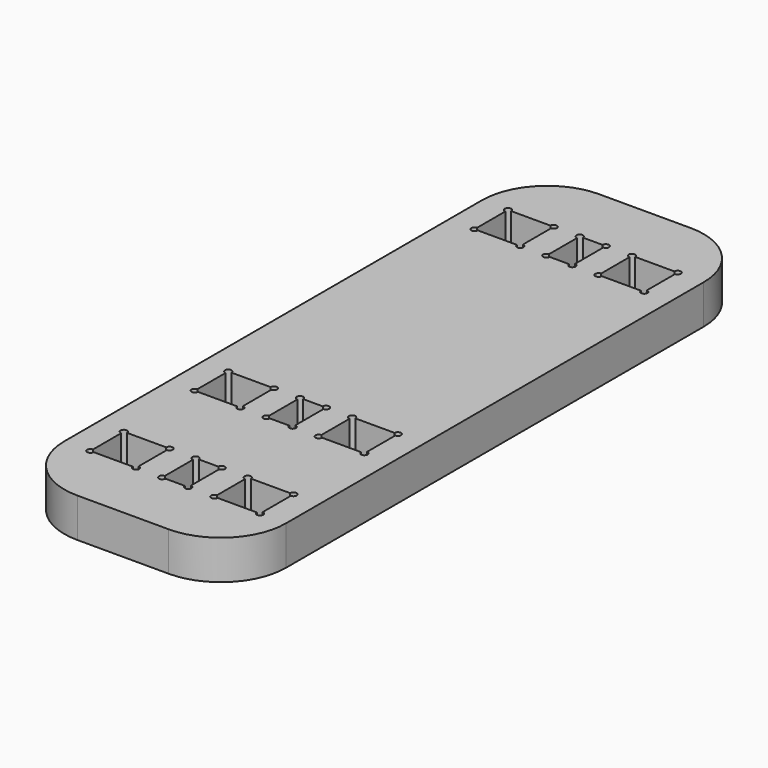
from build123d import *

# Parameters (mm, degrees)
F1_DEPTH = 3


with BuildPart() as f1:
    # F0 (on Top) → F1 (new body)
    with BuildSketch(Plane.XY):
        with BuildLine():
            Line((3.5, 50), (-3.5, 50))
            ThreePointArc((-3.5, 50), (-7.035534, 48.535534), (-8.5, 45))
            Line((-8.5, 45), (-8.5, 5))
            ThreePointArc((-8.5, 5), (-7.035534, 1.464466), (-3.5, 0))
            Line((-3.5, 0), (3.5, 0))
            ThreePointArc((3.5, 0), (7.035534, 1.464466), (8.5, 5))
            Line((8.5, 5), (8.5, 45))
            ThreePointArc((8.5, 45), (7.035534, 48.535534), (3.5, 50))
        make_face()
        with BuildLine():
            ThreePointArc((-6.5, 7.95), (-6.676777, 8.376777), (-6.25, 8.2))
            Line((-6.25, 8.2), (-3.25, 8.2))
            ThreePointArc((-3.25, 8.2), (-3, 8.45), (-2.75, 8.2))
            ThreePointArc((-2.75, 8.2), (-2.823223, 8.023223), (-3, 7.95))
            Line((-3, 7.95), (-3, 5.25))
            ThreePointArc((-3, 5.25), (-2.823223, 5.176777), (-2.75, 5))
            ThreePointArc((-2.75, 5), (-3, 4.75), (-3.25, 5))
            Line((-3.25, 5), (-6.25, 5))
            ThreePointArc((-6.25, 5), (-6.676777, 4.823223), (-6.5, 5.25))
            Line((-6.5, 5.25), (-6.5, 7.95))
        make_face(mode=Mode.SUBTRACT)
        with BuildLine():
            ThreePointArc((-2.75, 18.2), (-2.823223, 18.023223), (-3, 17.95))
            Line((-3, 17.95), (-3, 15.25))
            ThreePointArc((-3, 15.25), (-2.823223, 15.176777), (-2.75, 15))
            ThreePointArc((-2.75, 15), (-3, 14.75), (-3.25, 15))
            Line((-3.25, 15), (-6.25, 15))
            ThreePointArc((-6.25, 15), (-6.676777, 14.823223), (-6.5, 15.25))
            Line((-6.5, 15.25), (-6.5, 17.95))
            ThreePointArc((-6.5, 17.95), (-6.676777, 18.376777), (-6.25, 18.2))
            Line((-6.25, 18.2), (-3.25, 18.2))
            ThreePointArc((-3.25, 18.2), (-3, 18.45), (-2.75, 18.2))
        make_face(mode=Mode.SUBTRACT)
        with BuildLine():
            ThreePointArc((-1, 7.95), (-1.176777, 8.376777), (-0.75, 8.2))
            Line((-0.75, 8.2), (0.75, 8.2))
            ThreePointArc((0.75, 8.2), (1, 8.45), (1.25, 8.2))
            ThreePointArc((1.25, 8.2), (1.176777, 8.023223), (1, 7.95))
            Line((1, 7.95), (1, 5.25))
            ThreePointArc((1, 5.25), (1.176777, 5.176777), (1.25, 5))
            ThreePointArc((1.25, 5), (1, 4.75), (0.75, 5))
            Line((0.75, 5), (-0.75, 5))
            ThreePointArc((-0.75, 5), (-1.176777, 4.823223), (-1, 5.25))
            Line((-1, 5.25), (-1, 7.95))
        make_face(mode=Mode.SUBTRACT)
        with BuildLine():
            ThreePointArc((3, 7.95), (2.823223, 8.376777), (3.25, 8.2))
            Line((3.25, 8.2), (6.25, 8.2))
            ThreePointArc((6.25, 8.2), (6.5, 8.45), (6.75, 8.2))
            ThreePointArc((6.75, 8.2), (6.676777, 8.023223), (6.5, 7.95))
            Line((6.5, 7.95), (6.5, 5.25))
            ThreePointArc((6.5, 5.25), (6.676777, 5.176777), (6.75, 5))
            ThreePointArc((6.75, 5), (6.5, 4.75), (6.25, 5))
            Line((6.25, 5), (3.25, 5))
            ThreePointArc((3.25, 5), (2.823223, 4.823223), (3, 5.25))
            Line((3, 5.25), (3, 7.95))
        make_face(mode=Mode.SUBTRACT)
        with BuildLine():
            ThreePointArc((1.25, 18.2), (1.176777, 18.023223), (1, 17.95))
            Line((1, 17.95), (1, 15.25))
            ThreePointArc((1, 15.25), (1.176777, 15.176777), (1.25, 15))
            ThreePointArc((1.25, 15), (1, 14.75), (0.75, 15))
            Line((0.75, 15), (-0.75, 15))
            ThreePointArc((-0.75, 15), (-1.176777, 14.823223), (-1, 15.25))
            Line((-1, 15.25), (-1, 17.95))
            ThreePointArc((-1, 17.95), (-1.176777, 18.376777), (-0.75, 18.2))
            Line((-0.75, 18.2), (0.75, 18.2))
            ThreePointArc((0.75, 18.2), (1, 18.45), (1.25, 18.2))
        make_face(mode=Mode.SUBTRACT)
        with BuildLine():
            ThreePointArc((3, 17.95), (2.823223, 18.376777), (3.25, 18.2))
            Line((3.25, 18.2), (6.25, 18.2))
            ThreePointArc((6.25, 18.2), (6.5, 18.45), (6.75, 18.2))
            ThreePointArc((6.75, 18.2), (6.676777, 18.023223), (6.5, 17.95))
            Line((6.5, 17.95), (6.5, 15.25))
            ThreePointArc((6.5, 15.25), (6.676777, 15.176777), (6.75, 15))
            ThreePointArc((6.75, 15), (6.5, 14.75), (6.25, 15))
            Line((6.25, 15), (3.25, 15))
            ThreePointArc((3.25, 15), (2.823223, 14.823223), (3, 15.25))
            Line((3, 15.25), (3, 17.95))
        make_face(mode=Mode.SUBTRACT)
        with BuildLine():
            ThreePointArc((-3.25, 45), (-3, 45.25), (-2.75, 45))
            ThreePointArc((-2.75, 45), (-2.823223, 44.823223), (-3, 44.75))
            Line((-3, 44.75), (-3, 42.05))
            ThreePointArc((-3, 42.05), (-2.823223, 41.976777), (-2.75, 41.8))
            ThreePointArc((-2.75, 41.8), (-3, 41.55), (-3.25, 41.8))
            Line((-3.25, 41.8), (-6.25, 41.8))
            ThreePointArc((-6.25, 41.8), (-6.676777, 41.623223), (-6.5, 42.05))
            Line((-6.5, 42.05), (-6.5, 44.75))
            ThreePointArc((-6.5, 44.75), (-6.676777, 45.176777), (-6.25, 45))
            Line((-6.25, 45), (-3.25, 45))
        make_face(mode=Mode.SUBTRACT)
        with BuildLine():
            ThreePointArc((-1, 44.75), (-1.176777, 45.176777), (-0.75, 45))
            Line((-0.75, 45), (0.75, 45))
            ThreePointArc((0.75, 45), (1, 45.25), (1.25, 45))
            ThreePointArc((1.25, 45), (1.176777, 44.823223), (1, 44.75))
            Line((1, 44.75), (1, 42.05))
            ThreePointArc((1, 42.05), (1.176777, 41.976777), (1.25, 41.8))
            ThreePointArc((1.25, 41.8), (1, 41.55), (0.75, 41.8))
            Line((0.75, 41.8), (-0.75, 41.8))
            ThreePointArc((-0.75, 41.8), (-1.176777, 41.623223), (-1, 42.05))
            Line((-1, 42.05), (-1, 44.75))
        make_face(mode=Mode.SUBTRACT)
        with BuildLine():
            ThreePointArc((6.25, 45), (6.5, 45.25), (6.75, 45))
            ThreePointArc((6.75, 45), (6.676777, 44.823223), (6.5, 44.75))
            Line((6.5, 44.75), (6.5, 42.05))
            ThreePointArc((6.5, 42.05), (6.676777, 41.976777), (6.75, 41.8))
            ThreePointArc((6.75, 41.8), (6.5, 41.55), (6.25, 41.8))
            Line((6.25, 41.8), (3.25, 41.8))
            ThreePointArc((3.25, 41.8), (2.823223, 41.623223), (3, 42.05))
            Line((3, 42.05), (3, 44.75))
            ThreePointArc((3, 44.75), (2.823223, 45.176777), (3.25, 45))
            Line((3.25, 45), (6.25, 45))
        make_face(mode=Mode.SUBTRACT)
    extrude(amount=F1_DEPTH)


solid = f1.part
